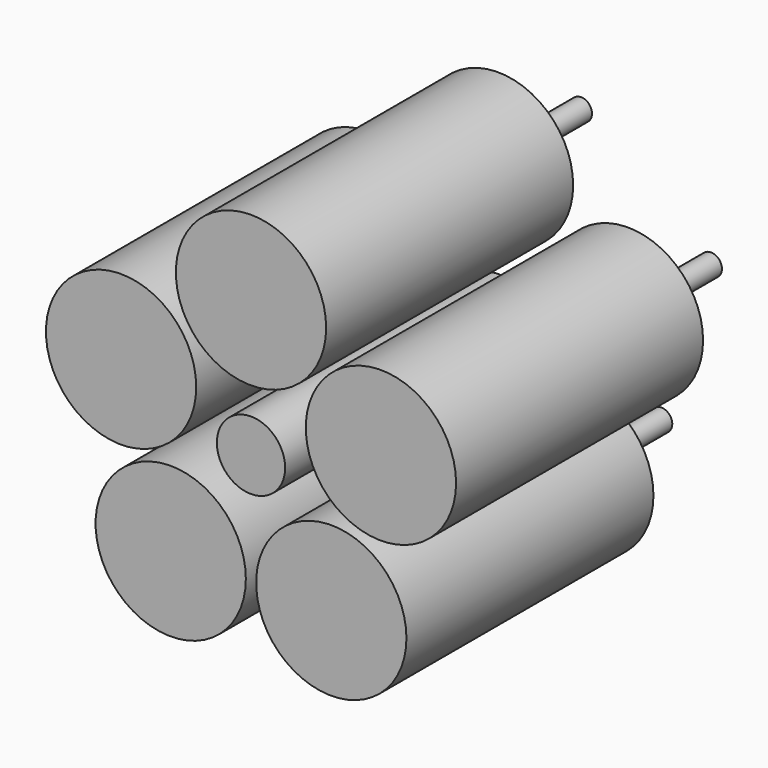
from build123d import *

# Parameters (mm, degrees)
F0_R     = 12.5
F0_R_2   = 27.5
F1_DEPTH = 113
F2_R     = 4
F3_DEPTH = 38


with BuildPart() as f1:
    # F0 (on Front) → F1 (new body)
    with BuildSketch(Plane.XZ):
        Circle(F0_R)
        with Locations((0, 50)):
            Circle(F0_R_2)
        with Locations((-47.552826, 15.45085)):
            Circle(F0_R_2)
        with Locations((-29.389263, -40.45085)):
            Circle(F0_R_2)
        with Locations((29.389263, -40.45085)):
            Circle(F0_R_2)
        with Locations((47.552826, 15.45085)):
            Circle(F0_R_2)
    extrude(amount=F1_DEPTH)


with BuildPart() as f3:
    # F2 (on Front) → F3 (new body)
    with BuildSketch(Plane.XZ):
        with Locations((0, 50)):
            Circle(F2_R)
        with Locations((47.552826, 15.45085)):
            Circle(F2_R)
        with Locations((29.389263, -40.45085)):
            Circle(F2_R)
        with Locations((-29.389263, -40.45085)):
            Circle(F2_R)
        with Locations((-47.552826, 15.45085)):
            Circle(F2_R)
    extrude(amount=-F3_DEPTH)


solid = Compound([f1.part, f3.part])
